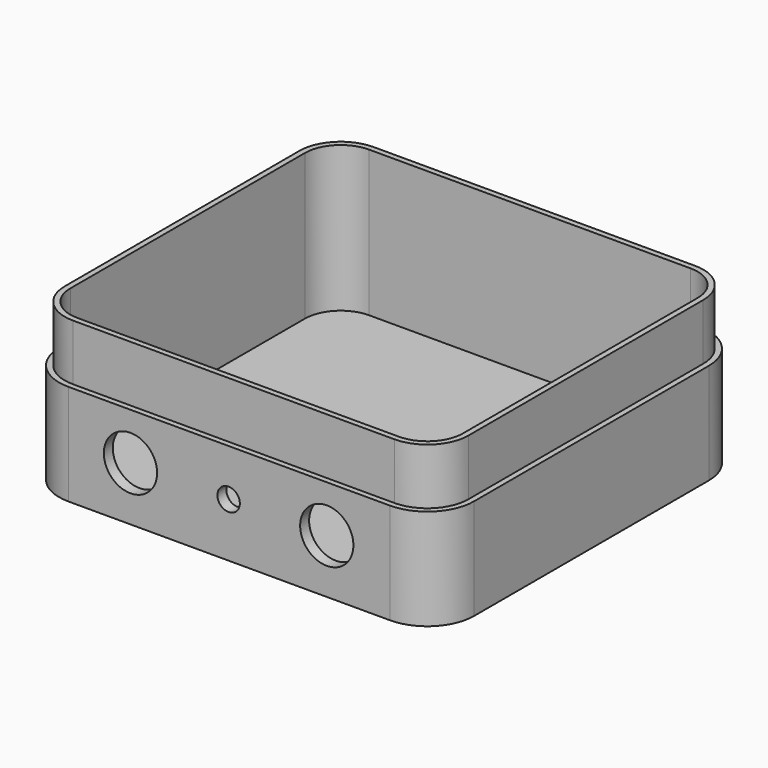
from build123d import *

# Parameters (mm, degrees)
F1_DEPTH = 2
F2_DEPTH = 26
F4_DEPTH = 25.4
F6_DEPTH = 10
F7_R     = 4.75
F8_DEPTH = 25.4


with BuildPart() as f1:
    # F0 (on Top) → F1 (new body)
    with BuildSketch(Plane.XY):
        with BuildLine():
            Line((37, 6.35), (37, 58.65))
            ThreePointArc((37, 58.65), (34.5543416229, 64.5543416229), (28.65, 67))
            Line((28.65, 67), (-28.65, 67))
            ThreePointArc((-28.65, 67), (-34.5543416229, 64.5543416229), (-37, 58.65))
            Line((-37, 58.65), (-37, 6.35))
            ThreePointArc((-37, 6.35), (-34.5543416229, 0.4456583771), (-28.65, -2))
            Line((-28.65, -2), (0, -2))
            Line((0, -2), (28.65, -2))
            ThreePointArc((28.65, -2), (34.5543416229, 0.4456583771), (37, 6.35))
        make_face()
        with BuildLine():
            Line((28.65, 0), (0, 0))
            Line((0, 0), (-28.65, 0))
            ThreePointArc((-28.65, 0), (-33.1401280605, 1.8598719395), (-35, 6.35))
            Line((-35, 6.35), (-35, 58.65))
            ThreePointArc((-35, 58.65), (-33.1401280605, 63.1401280605), (-28.65, 65))
            Line((-28.65, 65), (28.65, 65))
            ThreePointArc((28.65, 65), (33.1401280605, 63.1401280605), (35, 58.65))
            Line((35, 58.65), (35, 6.35))
            ThreePointArc((35, 6.35), (33.1401280605, 1.8598719395), (28.65, 0))
        make_face(mode=Mode.SUBTRACT)
        with BuildLine():
            Line((-28.65, 0), (0, 0))
            Line((0, 0), (28.65, 0))
            ThreePointArc((28.65, 0), (33.1401280605, 1.8598719395), (35, 6.35))
            Line((35, 6.35), (35, 58.65))
            ThreePointArc((35, 58.65), (33.1401280605, 63.1401280605), (28.65, 65))
            Line((28.65, 65), (-28.65, 65))
            ThreePointArc((-28.65, 65), (-33.1401280605, 63.1401280605), (-35, 58.65))
            Line((-35, 58.65), (-35, 6.35))
            ThreePointArc((-35, 6.35), (-33.1401280605, 1.8598719395), (-28.65, 0))
        make_face()
    extrude(amount=-F1_DEPTH)

    # F0 (on Top) → F2 (join)
    with BuildSketch(Plane.XY):
        with BuildLine():
            Line((37, 6.35), (37, 58.65))
            ThreePointArc((37, 58.65), (34.5543416229, 64.5543416229), (28.65, 67))
            Line((28.65, 67), (-28.65, 67))
            ThreePointArc((-28.65, 67), (-34.5543416229, 64.5543416229), (-37, 58.65))
            Line((-37, 58.65), (-37, 6.35))
            ThreePointArc((-37, 6.35), (-34.5543416229, 0.4456583771), (-28.65, -2))
            Line((-28.65, -2), (0, -2))
            Line((0, -2), (28.65, -2))
            ThreePointArc((28.65, -2), (34.5543416229, 0.4456583771), (37, 6.35))
        make_face()
        with BuildLine():
            Line((28.65, 0), (0, 0))
            Line((0, 0), (-28.65, 0))
            ThreePointArc((-28.65, 0), (-33.1401280605, 1.8598719395), (-35, 6.35))
            Line((-35, 6.35), (-35, 58.65))
            ThreePointArc((-35, 58.65), (-33.1401280605, 63.1401280605), (-28.65, 65))
            Line((-28.65, 65), (28.65, 65))
            ThreePointArc((28.65, 65), (33.1401280605, 63.1401280605), (35, 58.65))
            Line((35, 58.65), (35, 6.35))
            ThreePointArc((35, 6.35), (33.1401280605, 1.8598719395), (28.65, 0))
        make_face(mode=Mode.SUBTRACT)
    extrude(amount=F2_DEPTH)

    # F0 (on Top) → F4 (join)
    with BuildSketch(Plane.XY):
        with BuildLine():
            Line((37, 6.35), (37, 58.65))
            ThreePointArc((37, 58.65), (34.5543416229, 64.5543416229), (28.65, 67))
            Line((28.65, 67), (-28.65, 67))
            ThreePointArc((-28.65, 67), (-34.5543416229, 64.5543416229), (-37, 58.65))
            Line((-37, 58.65), (-37, 6.35))
            ThreePointArc((-37, 6.35), (-34.5543416229, 0.4456583771), (-28.65, -2))
            Line((-28.65, -2), (0, -2))
            Line((0, -2), (28.65, -2))
            ThreePointArc((28.65, -2), (34.5543416229, 0.4456583771), (37, 6.35))
        make_face()
        with BuildLine():
            Line((28.65, 0), (0, 0))
            Line((0, 0), (-28.65, 0))
            ThreePointArc((-28.65, 0), (-33.1401280605, 1.8598719395), (-35, 6.35))
            Line((-35, 6.35), (-35, 58.65))
            ThreePointArc((-35, 58.65), (-33.1401280605, 63.1401280605), (-28.65, 65))
            Line((-28.65, 65), (28.65, 65))
            ThreePointArc((28.65, 65), (33.1401280605, 63.1401280605), (35, 58.65))
            Line((35, 58.65), (35, 6.35))
            ThreePointArc((35, 6.35), (33.1401280605, 1.8598719395), (28.65, 0))
        make_face(mode=Mode.SUBTRACT)
    extrude(amount=F4_DEPTH)

    # F5 (on offset) → F6 (cut)
    with BuildSketch(Plane.XY.offset(26)):
        with BuildLine():
            Line((37, 6.35), (37, 58.65))
            ThreePointArc((37, 58.65), (34.5543416229, 64.5543416229), (28.65, 67))
            Line((28.65, 67), (-28.65, 67))
            ThreePointArc((-28.65, 67), (-34.5543416229, 64.5543416229), (-37, 58.65))
            Line((-37, 58.65), (-37, 6.35))
            ThreePointArc((-37, 6.35), (-34.5543416229, 0.4456583771), (-28.65, -2))
            Line((-28.65, -2), (0, -2))
            Line((0, -2), (28.65, -2))
            ThreePointArc((28.65, -2), (34.5543416229, 0.4456583771), (37, 6.35))
        make_face()
        with BuildLine():
            ThreePointArc((28.65, 66), (33.8472348417, 63.8472348417), (36, 58.65))
            Line((36, 58.65), (36, 6.35))
            ThreePointArc((36, 6.35), (33.8472348417, 1.1527651583), (28.65, -1))
            Line((28.65, -1), (0, -1))
            Line((0, -1), (-28.65, -1))
            ThreePointArc((-28.65, -1), (-33.8472348417, 1.1527651583), (-36, 6.35))
            Line((-36, 6.35), (-36, 58.65))
            ThreePointArc((-36, 58.65), (-33.8472348417, 63.8472348417), (-28.65, 66))
            Line((-28.65, 66), (28.65, 66))
        make_face(mode=Mode.SUBTRACT)
    extrude(amount=-F6_DEPTH, mode=Mode.SUBTRACT)

    # F7 (on Front) → F8 (cut)
    with BuildSketch(Plane.XZ):
        with BuildLine():
            Line((1.8965332347, 7.6312003657), (-0.1034667653, 7.6312003657))
            Line((-0.1034667653, 7.6312003657), (-2.1034667653, 7.6312003657))
            ThreePointArc((-2.1034667653, 7.6312003657), (-0.1034667653, 5.6312003657), (1.8965332347, 7.6312003657))
        make_face()
        with BuildLine():
            Line((-2.1034667653, 7.6312003657), (-0.1034667653, 7.6312003657))
            Line((-0.1034667653, 7.6312003657), (1.8965332347, 7.6312003657))
            ThreePointArc((1.8965332347, 7.6312003657), (-0.1034667653, 9.6312003657), (-2.1034667653, 7.6312003657))
        make_face()
        with Locations((-17.6034667653, 7.6312003657)):
            Circle(F7_R)
        with BuildLine():
            ThreePointArc((22.1465332347, 7.6312003657), (17.3965332347, 12.3812003657), (12.6465332347, 7.6312003657))
            Line((12.6465332347, 7.6312003657), (17.3965332347, 7.6312003657))
            Line((17.3965332347, 7.6312003657), (22.1465332347, 7.6312003657))
        make_face()
        with BuildLine():
            Line((17.3965332347, 7.6312003657), (12.6465332347, 7.6312003657))
            ThreePointArc((12.6465332347, 7.6312003657), (17.3965332347, 2.8812003657), (22.1465332347, 7.6312003657))
            Line((22.1465332347, 7.6312003657), (17.3965332347, 7.6312003657))
        make_face()
    extrude(amount=F8_DEPTH, mode=Mode.SUBTRACT)


solid = f1.part
